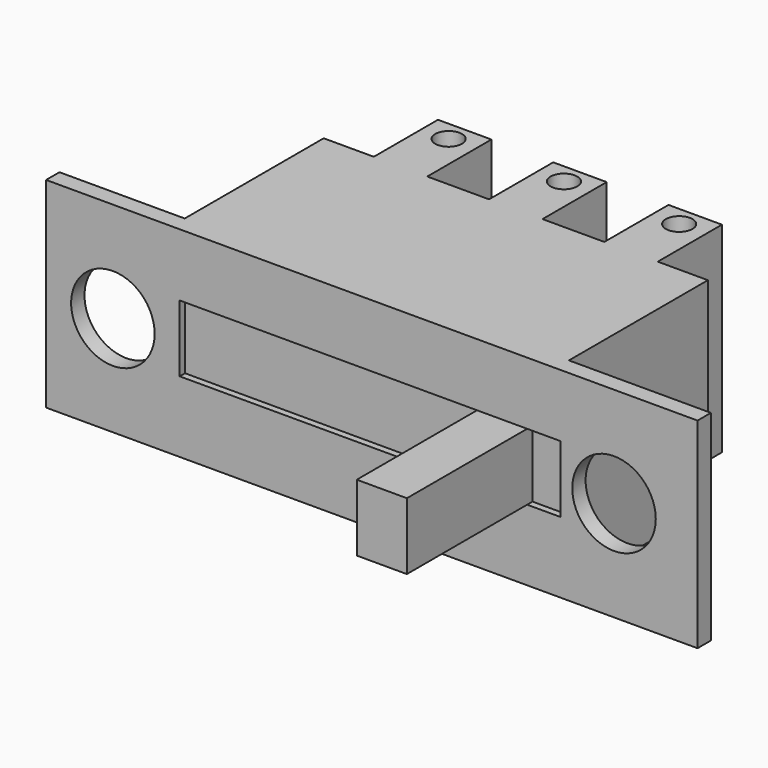
from build123d import *

# Parameters (mm, degrees)
F0_W      = 19.5
F0_H      = 6
F1_DEPTH  = 0.5
F2_R      = 1.25
F3_DEPTH  = 3
F4_W      = 11.4
F4_H      = 2
F5_DEPTH  = 0.2
F6_W      = 1.5
F6_H      = 2
F7_DEPTH  = 4.7
F8_W      = 11.5
F8_H      = 6
F9_DEPTH  = 5.2
F10_W     = 1.6
F10_H     = 6
F11_DEPTH = 2.4
F12_R     = 0.4
F13_DEPTH = 6


with BuildPart() as f1:
    # F0 (on Front) → F1 (new body)
    with BuildSketch(Plane.XZ):
        with Locations((9.75, -3)):
            Rectangle(F0_W, F0_H)
    extrude(amount=F1_DEPTH)

    # F2 (on face) → F3 (cut)
    with BuildSketch(Plane.XZ.offset(0.5)):
        with Locations((2, -3)):
            Circle(F2_R)
        with Locations((17, -3)):
            Circle(F2_R)
    extrude(amount=-F3_DEPTH, mode=Mode.SUBTRACT)

    # F4 (on face) → F5 (cut)
    with BuildSketch(Plane.XZ.offset(0.5)):
        with Locations((9.7, -2.875332)):
            Rectangle(F4_W, F4_H)
    extrude(amount=-F5_DEPTH, mode=Mode.SUBTRACT)

    # F6 (on face) → F7 (join)
    with BuildSketch(Plane.XZ.offset(0.3)):
        with Locations((13.65, -2.875332)):
            Rectangle(F6_W, F6_H)
    extrude(amount=F7_DEPTH)

    # F8 (on face) → F9 (join)
    with BuildSketch(Plane(origin=(0, 0, 0), x_dir=(-1, 0, 0), z_dir=(0, 1, 0))):
        with Locations((-9.5, -3)):
            Rectangle(F8_W, F8_H)
    extrude(amount=F9_DEPTH)

    # F10 (on face) → F11 (join)
    with BuildSketch(Plane(origin=(0, 5.2, 0), x_dir=(-1, 0, 0), z_dir=(0, 1, 0))):
        with Locations((-12.95, -3)):
            Rectangle(F10_W, F10_H)
        with Locations((-9.5, -3)):
            Rectangle(F10_W, F10_H)
        with Locations((-6.05, -3)):
            Rectangle(F10_W, F10_H)
    extrude(amount=F11_DEPTH)

    # F12 (on face) → F13 (cut)
    with BuildSketch(Plane.XY):
        with Locations((12.95, 7)):
            Circle(F12_R)
        with Locations((9.5, 7)):
            Circle(F12_R)
        with Locations((6.05, 7)):
            Circle(F12_R)
    extrude(amount=-F13_DEPTH, mode=Mode.SUBTRACT)


solid = f1.part
